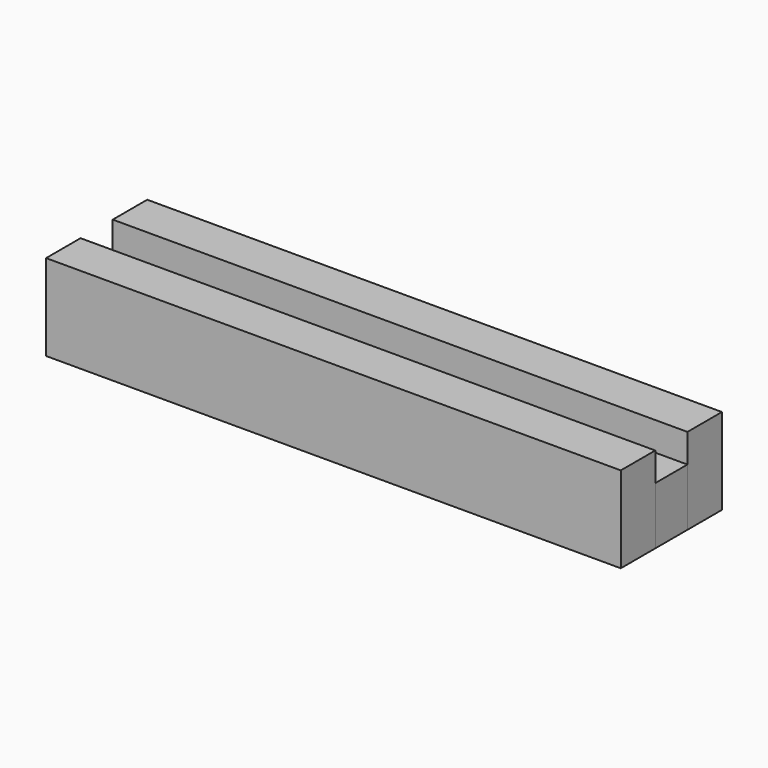
from build123d import *

# Parameters (mm, degrees)
F0_W     = 17.78
F0_H     = 25.4
F1_DEPTH = 254
F2_DEPTH = 254


with BuildPart() as f1:
    # F0 (on Right) → F1 (new body)
    with BuildSketch(Plane.YZ):
        Rectangle(F0_W, F0_H)
    extrude(amount=F1_DEPTH)


with BuildPart() as f2:
    # F0 (on Right) → F2 (new body)
    with BuildSketch(Plane.YZ):
        Polygon((-27.94, -12.7), (-8.89, -12.7), (-8.89, 12.7), (-8.89, 25.4), (-27.94, 25.4), align=None)
        Polygon((8.89, 12.7), (8.89, -12.7), (27.94, -12.7), (27.94, 25.4), (8.89, 25.4), align=None)
    extrude(amount=F2_DEPTH)


solid = Compound([f1.part, f2.part])
